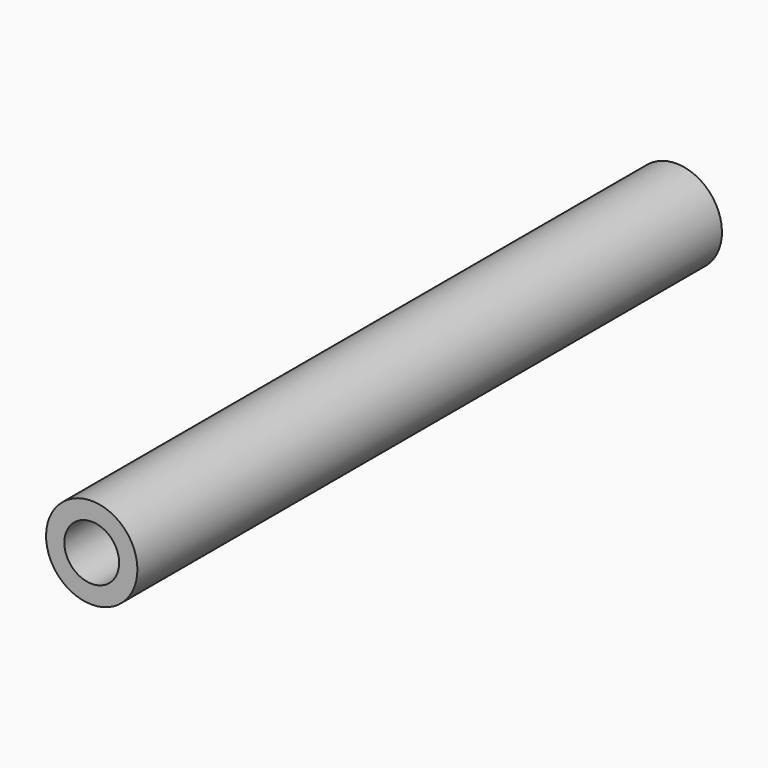
from build123d import *

# Parameters (mm, degrees)
CYLINDER005_R           = 1.5
CYLINDER005_DEPTH       = 44
CYLINDER005_PITCH_ANGLE = 90
CYLINDER004_R           = 2.5
CYLINDER004_DEPTH       = 40
CYLINDER004_PITCH_ANGLE = 90
CUT004_PLACEMENT_ANGLE  = 90


with BuildPart() as cilindro005:
    # Cylinder005 → Cylinder005 (new body)
    with BuildSketch(Plane.XY):
        Circle(CYLINDER005_R)
    extrude(amount=CYLINDER005_DEPTH)


with BuildPart() as cilindro005_1:
    # Cylinder005 pitch: moved
    add(cilindro005.part.rotate(Axis((0, 0, 0), (0, 1, 0)), CYLINDER005_PITCH_ANGLE))


with BuildPart() as cilindro005_2:
    # Cylinder005 placement: moved
    add(cilindro005_1.part.moved(Location((-2, 0, 0))))


with BuildPart() as soporte005:
    # Cylinder004 → Cylinder004 (new body)
    with BuildSketch(Plane.XY):
        Circle(CYLINDER004_R)
    extrude(amount=CYLINDER004_DEPTH)


with BuildPart() as soporte005_1:
    # Cylinder004 pitch: moved
    add(soporte005.part.rotate(Axis((0, 0, 0), (0, 1, 0)), CYLINDER004_PITCH_ANGLE))


with BuildPart() as soporte005_2:
    # Cylinder004 placement: moved
    add(soporte005_1.part)

    # Cut004: cut Cilindro005
    add(cilindro005_2.part, mode=Mode.SUBTRACT)


with BuildPart() as soporte005_3:
    # Cut004 placement: moved
    add(soporte005_2.part.moved(Location((45, 235, 280))).rotate(Axis((45, 235, 280), (0, 0, 1)), CUT004_PLACEMENT_ANGLE))


solid = soporte005_3.part
